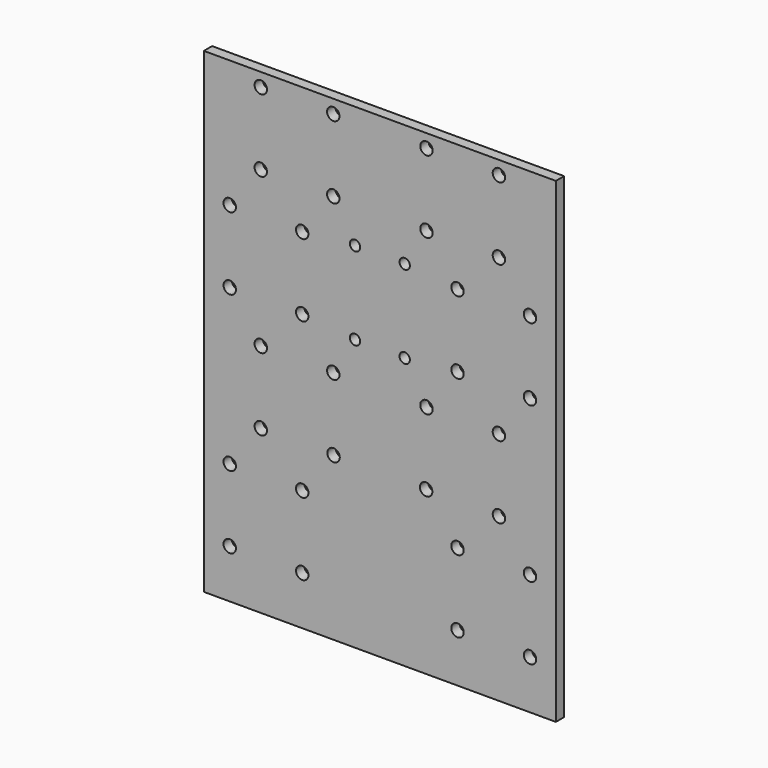
from build123d import *

# Parameters (mm, degrees)
F0_W     = 170
F0_H     = 230
F1_DEPTH = 5
F2_R     = 3
F3_DEPTH = 5
F4_R     = 2.5
F5_DEPTH = 5
F6_R     = 3
F7_DEPTH = 5
F8_R     = 3
F9_DEPTH = 5


with BuildPart() as f1:
    # F0 (on Front) → F1 (new body)
    with BuildSketch(Plane.XZ):
        Rectangle(F0_W, F0_H)
    extrude(amount=F1_DEPTH)

    # F2 (on face) → F3 (cut)
    with BuildSketch(Plane.XZ.offset(5)):
        with Locations((-57.5, 108.5)):
            Circle(F2_R)
        with Locations((-22.5, 108.5)):
            Circle(F2_R)
        with Locations((-57.5, 73.5)):
            Circle(F2_R)
        with Locations((-22.5, 73.5)):
            Circle(F2_R)
        with Locations((22.5, 108.5)):
            Circle(F2_R)
        with Locations((22.5, 73.5)):
            Circle(F2_R)
        with Locations((57.5, 73.5)):
            Circle(F2_R)
        with Locations((57.5, 108.5)):
            Circle(F2_R)
        with Locations((57.5, -1.5)):
            Circle(F2_R)
        with Locations((22.5, -1.5)):
            Circle(F2_R)
        with Locations((22.353769, -36.5)):
            Circle(F2_R)
        with Locations((57.5, -36.5)):
            Circle(F2_R)
        with Locations((-22.5, -1.5)):
            Circle(F2_R)
        with Locations((-57.5, -1.5)):
            Circle(F2_R)
        with Locations((-22.353769, -36.5)):
            Circle(F2_R)
        with Locations((-57.5, -36.5)):
            Circle(F2_R)
    extrude(amount=-F3_DEPTH, mode=Mode.SUBTRACT)

    # F4 (on face) → F5 (cut)
    with BuildSketch(Plane.XZ.offset(5)):
        with Locations((-12, 56)):
            Circle(F4_R)
        with Locations((-12, 16)):
            Circle(F4_R)
        with Locations((12, 56)):
            Circle(F4_R)
        with Locations((12, 16)):
            Circle(F4_R)
    extrude(amount=-F5_DEPTH, mode=Mode.SUBTRACT)

    # F6 (on face) → F7 (cut)
    with BuildSketch(Plane.XZ.offset(5)):
        with Locations((37.5, 53.5)):
            Circle(F6_R)
        with BuildLine():
            ThreePointArc((69.5, 53.5), (72.5, 50.5), (75.5, 53.5))
            ThreePointArc((75.5, 53.5), (72.5, 56.5), (69.5, 53.5))
        make_face()
        with Locations((37.5, 18.5)):
            Circle(F6_R)
        with Locations((72.5, 18.5)):
            Circle(F6_R)
        with Locations((-37.5, 53.5)):
            Circle(F6_R)
        with Locations((-72.5, 53.5)):
            Circle(F6_R)
        with Locations((-37.5, 18.5)):
            Circle(F6_R)
        with Locations((-72.5, 18.5)):
            Circle(F6_R)
    extrude(amount=-F7_DEPTH, mode=Mode.SUBTRACT)

    # F8 (on face) → F9 (cut)
    with BuildSketch(Plane.XZ.offset(5)):
        with Locations((-37.5, -56.5)):
            Circle(F8_R)
        with Locations((-72.5, -56.5)):
            Circle(F8_R)
        with Locations((-37.5, -91.5)):
            Circle(F8_R)
        with Locations((-72.5, -91.5)):
            Circle(F8_R)
        with Locations((37.5, -56.5)):
            Circle(F8_R)
        with Locations((72.5, -56.5)):
            Circle(F8_R)
        with Locations((37.5, -91.5)):
            Circle(F8_R)
        with Locations((72.5, -91.5)):
            Circle(F8_R)
    extrude(amount=-F9_DEPTH, mode=Mode.SUBTRACT)


solid = f1.part
